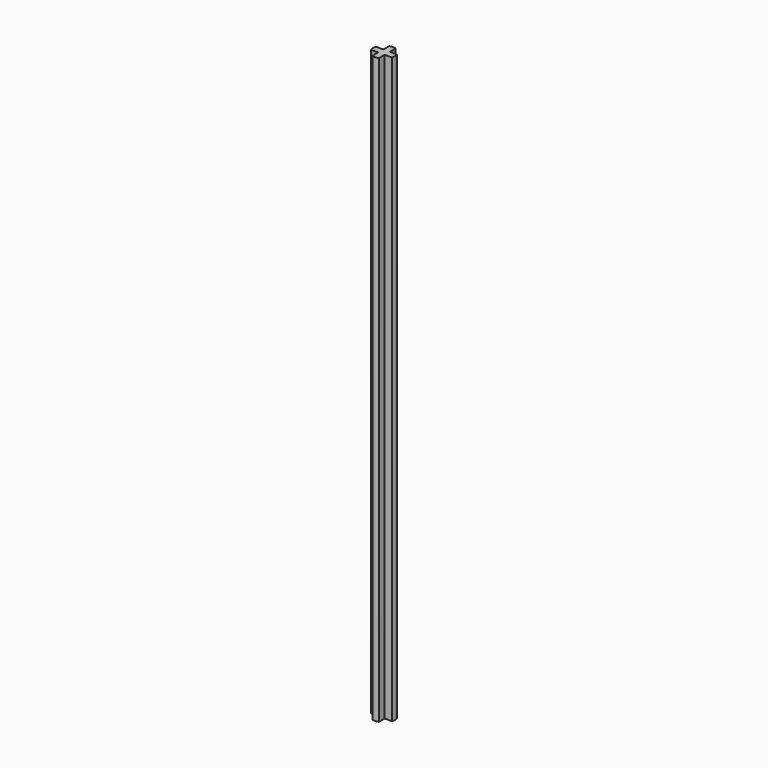
from build123d import *

# Parameters (mm, degrees)
F1_DEPTH = 127


with BuildPart() as f1:
    # F0 (on Top) → F1 (new body)
    with BuildSketch(Plane.XY):
        with BuildLine():
            Line((-11.57952, 10.962582), (-11.57952, 9.384583))
            ThreePointArc((-11.57952, 9.384583), (-10.88102, 9.279832), (-10.18252, 9.384583))
            Line((-10.18252, 9.384583), (-10.18252, 10.962582))
            Line((-10.18252, 10.962582), (-8.604521, 10.962582))
            ThreePointArc((-8.604521, 10.962582), (-8.49977, 11.661082), (-8.604521, 12.359582))
            Line((-8.604521, 12.359582), (-10.18252, 12.359582))
            Line((-10.18252, 12.359582), (-10.18252, 13.937582))
            ThreePointArc((-10.18252, 13.937582), (-10.88102, 14.042332), (-11.57952, 13.937582))
            Line((-11.57952, 13.937582), (-11.57952, 12.359582))
            Line((-11.57952, 12.359582), (-13.157519, 12.359582))
            ThreePointArc((-13.157519, 12.359582), (-13.26227, 11.661082), (-13.157519, 10.962582))
            Line((-13.157519, 10.962582), (-11.57952, 10.962582))
        make_face()
    extrude(amount=F1_DEPTH)


solid = f1.part
